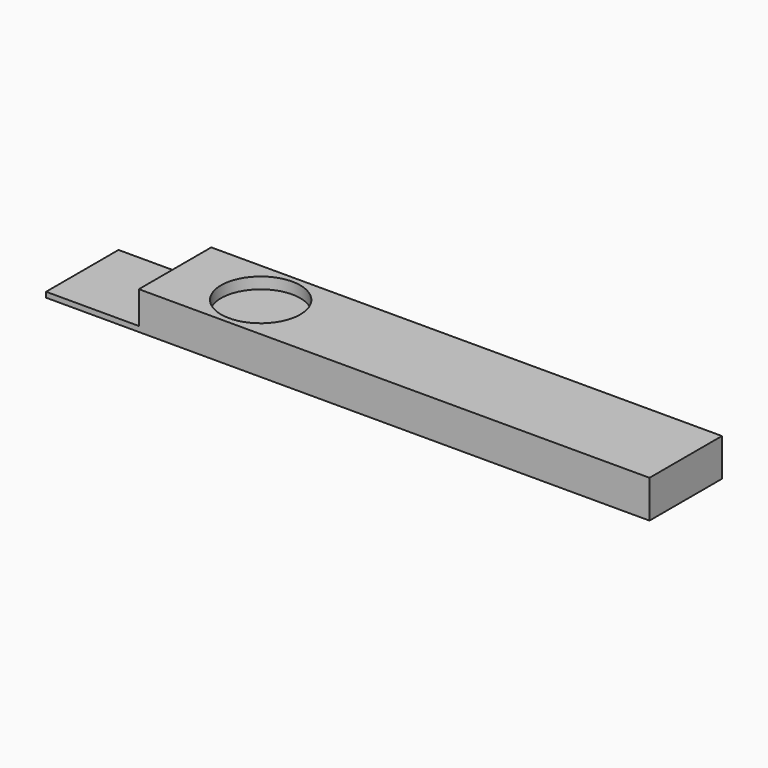
from build123d import *

# Parameters (mm, degrees)
F0_W     = 12.3
F0_H     = 6
F1_DEPTH = 0.7
F3_DEPTH = 5
F4_R     = 5.25
F5_DEPTH = 1.5
F2_W     = 5
F2_H     = 3
F6_DEPTH = 0.3


with BuildPart() as f1:
    # F0 (on Top) → F1 (new body)
    with BuildSketch(Plane.XY):
        with Locations((-33.85, -3)):
            Rectangle(F0_W, F0_H)
        with Locations((-33.85, 3)):
            Rectangle(F0_W, F0_H)
    extrude(amount=F1_DEPTH)

    # F0 (on Top) → F3 (join)
    with BuildSketch(Plane.XY):
        Polygon((40, -6), (40, 6), (-27.7, 6), (-27.7, 0), (-27.7, -6), align=None)
    extrude(amount=F3_DEPTH)

    # F4 (on face) → F5 (cut)
    with BuildSketch(Plane.XY.offset(5)):
        with Locations((-16.35, 0)):
            Circle(F4_R)
    extrude(amount=-F5_DEPTH, mode=Mode.SUBTRACT)

    # F2 (on Top) → F6 (cut)
    with BuildSketch(Plane.XY):
        with Locations((-37.5, 0)):
            Rectangle(F2_W, F2_H)
    extrude(amount=F6_DEPTH, mode=Mode.SUBTRACT)


solid = f1.part
